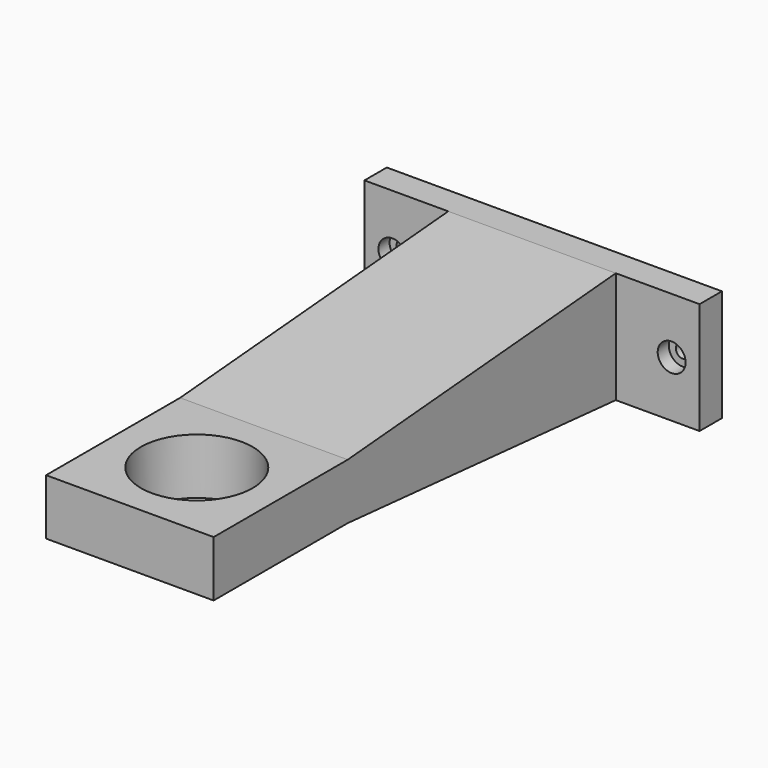
from build123d import *

# Parameters (mm, degrees)
F0_W           = 76.2
F0_H           = 25.4
F1_DEPTH       = 6.35
F3_D           = 3.175
F3_CBORE_D     = 6.35
F3_CBORE_DEPTH = 3.175
F4_W           = 38.1
F4_H           = 25.4
F6_W           = 38.1
F6_H           = 12.7
F8_W           = 38.1
F8_H           = 12.7
F9_DEPTH       = 38.1
F11_D          = 25.4


with BuildPart() as f1:
    # F0 (on Front) → F1 (new body)
    with BuildSketch(Plane.XZ):
        with Locations((38.1, 12.7)):
            Rectangle(F0_W, F0_H)
    extrude(amount=F1_DEPTH)

    # F3 (through all)
    with Locations(Plane.XZ.offset(6.35)):
        with Locations((6.35, 12.7), (69.85, 12.7)):
            CounterBoreHole(F3_D / 2, F3_CBORE_D / 2, F3_CBORE_DEPTH)

    # F4 (on face) → F7 section 0
    with BuildSketch(Plane.XZ.offset(6.35)):
        with Locations((38.1, 12.7)):
            Rectangle(F4_W, F4_H)
    # F6 (on offset) → F7 section 1
    with BuildSketch(Plane.XZ.offset(82.55)):
        with Locations((38.1, 12.7)):
            Rectangle(F6_W, F6_H)
    loft()

    # F8 (on face) → F9 (join)
    with BuildSketch(Plane.XZ.offset(82.55)):
        with Locations((38.1, 12.7)):
            Rectangle(F8_W, F8_H)
    extrude(amount=F9_DEPTH)

    # F11 (through all)
    with Locations(Plane(origin=(0, 0, 6.35), x_dir=(1, 0, 0), z_dir=(0, 0, -1))):
        with Locations((38.1, 101.6279906034)):
            Hole(F11_D / 2)


solid = f1.part
